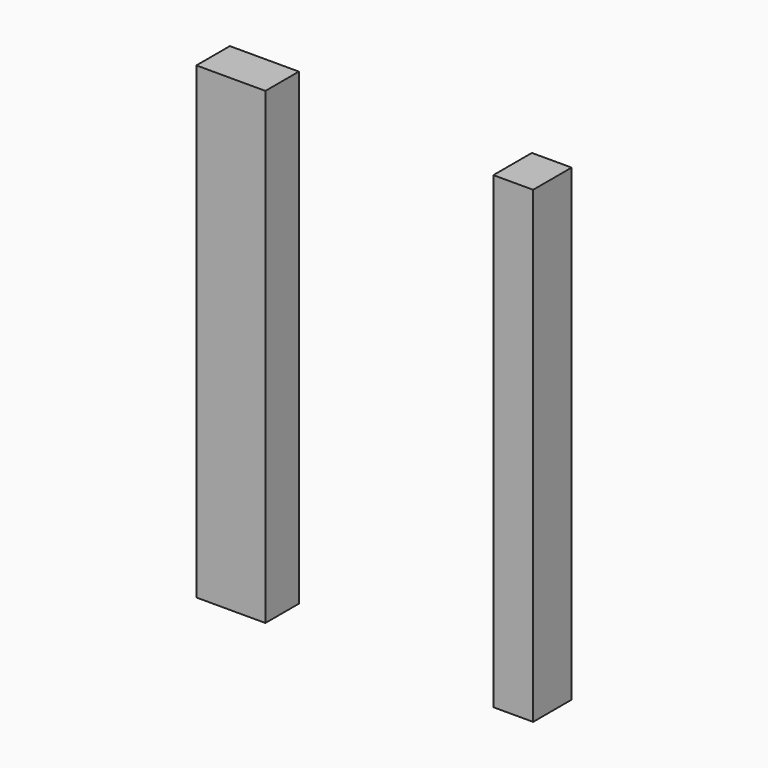
from build123d import *

# Parameters (mm, degrees)
F0_W     = 3.742434
F0_H     = 2.268143
F0_W_2   = 2.15473
F0_H_2   = 2.608363
F1_DEPTH = 25.4


with BuildPart() as f1:
    # F0 (on Top) → F1 (new body)
    with BuildSketch(Plane.XY):
        with Locations((-81.404034, 43.261747)):
            Rectangle(F0_W, F0_H)
        with Locations((-66.094089, 43.431857)):
            Rectangle(F0_W_2, F0_H_2)
    extrude(amount=F1_DEPTH)


solid = f1.part
